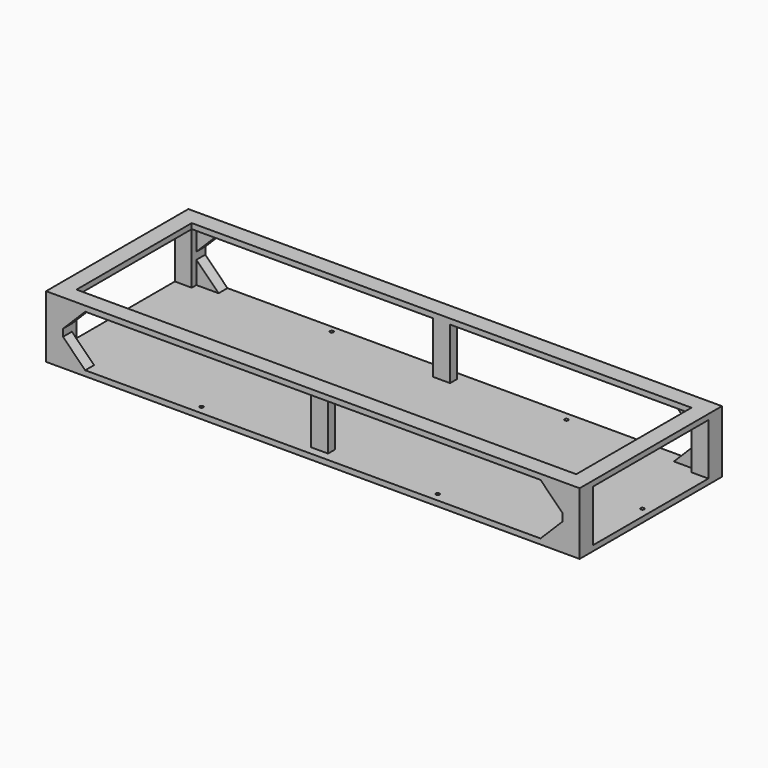
from build123d import *

# Parameters (mm, degrees)
F0_W      = 1200
F0_H      = 400
F1_DEPTH  = 12
F2_W      = 38
F2_H      = 38
F3_DEPTH  = 128
F5_DEPTH  = 12
F7_DEPTH  = 25
F9_W      = 38
F9_H      = 38
F10_DEPTH = 120
F11_R     = 4
F12_DEPTH = 25
F13_W     = 1124
F13_H     = 324
F14_DEPTH = 25
F15_W     = 38
F15_H     = 116
F16_DEPTH = 19
F17_W     = 38
F17_H     = 116
F18_DEPTH = 19


with BuildPart() as f1:
    # F0 (on Top) → F1 (new body)
    with BuildSketch(Plane.XY):
        Rectangle(F0_W, F0_H)
    extrude(amount=F1_DEPTH)

    # F2 (on face) → F3 (join)
    with BuildSketch(Plane.XY.offset(12)):
        with Locations((-581, 181)):
            Rectangle(F2_W, F2_H)
        with Locations((581, 181)):
            Rectangle(F2_W, F2_H)
        with Locations((581, -181)):
            Rectangle(F2_W, F2_H)
        with Locations((-581, -181)):
            Rectangle(F2_W, F2_H)
    extrude(amount=F3_DEPTH)

    # F4 (on face) → F5 (join)
    with BuildSketch(Plane.XY.offset(140)):
        Polygon((600, 200), (-562, 200), (-562, 162), (-600, 162), (-600, -200), (600, -200), align=None)
    extrude(amount=-F5_DEPTH)

    # F6 (on face) → F7 (join)
    with BuildSketch(Plane.XZ.offset(200)):
        Polygon((-562, 128), (-562, 78), (-512, 128), align=None)
        Polygon((-512, 12), (-562, 62), (-562, 12), align=None)
        Polygon((562, 62), (512, 12), (562, 12), align=None)
        Polygon((562, 128), (512, 128), (562, 78), align=None)
    extrude(amount=-F7_DEPTH)

    # F8: F1 across plane


with BuildPart() as f1_1:
    add(f1.part)
    add(f1.part.mirror(Plane.XZ))

    # F9 (on face) → F10 (join)
    with BuildSketch(Plane.XY.offset(12)):
        with Locations((0, -181)):
            Rectangle(F9_W, F9_H)
        with Locations((0, 181)):
            Rectangle(F9_W, F9_H)
    extrude(amount=F10_DEPTH)

    # F11 (on face) → F12 (cut)
    with BuildSketch(Plane.XY.offset(12)):
        with Locations((-265.5, -181)):
            Circle(F11_R)
        with Locations((-581, 0)):
            Circle(F11_R)
        with Locations((-265.5, 185)):
            Circle(F11_R)
        with Locations((265.5, 181)):
            Circle(F11_R)
        with Locations((265.5, -181)):
            Circle(F11_R)
        with Locations((581, 0)):
            Circle(F11_R)
    extrude(amount=-F12_DEPTH, mode=Mode.SUBTRACT)

    # F13 (on face) → F14 (cut)
    with BuildSketch(Plane.XY.offset(140)):
        Rectangle(F13_W, F13_H)
    extrude(amount=-F14_DEPTH, mode=Mode.SUBTRACT)

    # F15 (on face) → F16 (cut)
    with BuildSketch(Plane.XZ.offset(200)):
        with Locations((0, 70)):
            Rectangle(F15_W, F15_H)
    extrude(amount=-F16_DEPTH, mode=Mode.SUBTRACT)

    # F17 (on face) → F18 (cut)
    with BuildSketch(Plane(origin=(0, 200, 0), x_dir=(-1, 0, 0), z_dir=(0, 1, 0))):
        with Locations((0, 70)):
            Rectangle(F17_W, F17_H)
    extrude(amount=-F18_DEPTH, mode=Mode.SUBTRACT)


solid = f1_1.part
